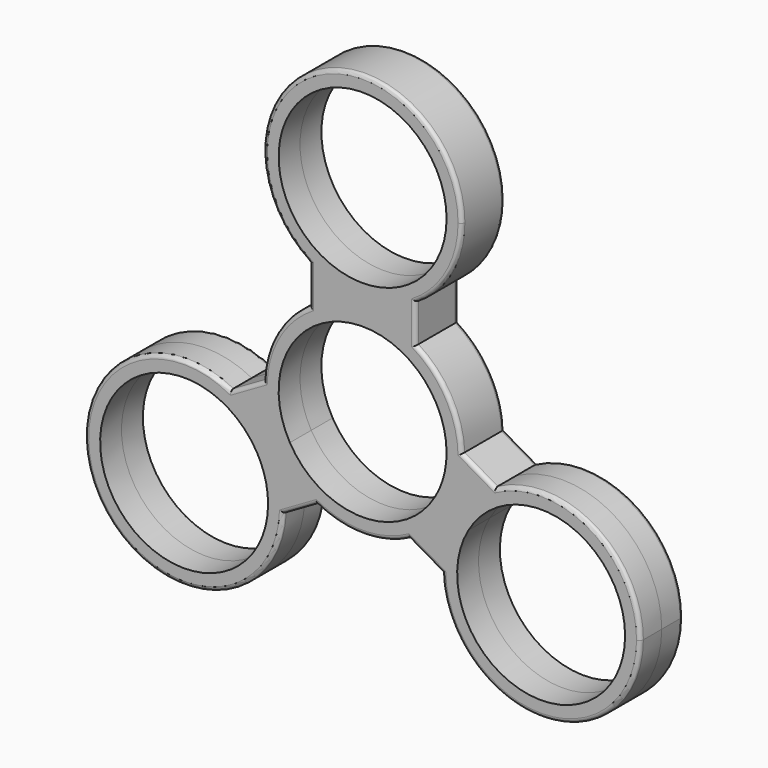
from build123d import *

# Parameters (mm, degrees)
F0_R     = 11
F1_DEPTH = 3.5
F2_R     = 0.5


with BuildPart() as f1:
    # F0 (on Front) → F1 (new body, symmetric)
    with BuildSketch(Plane.XZ):
        with BuildLine():
            ThreePointArc((-9.5262794416, -5.5), (-2.8470094961, 10.6251840892), (11, 0))
            ThreePointArc((11, 0), (10.6251840892, -2.8470094961), (9.5262794416, -5.5))
            Line((9.5262794416, -5.5), (11.2583302492, -6.5))
            ThreePointArc((11.2583302492, -6.5), (12.5570357418, -3.3646475863), (13, 0))
            ThreePointArc((13, 0), (12.9975950417, 0.2500462578), (12.9903810568, 0.5))
            ThreePointArc((12.9903810568, 0.5), (11.2583302492, 6.5), (6.9282032303, 11))
            ThreePointArc((6.9282032303, 11), (0, 13), (-6.9282032303, 11))
            ThreePointArc((-6.9282032303, 11), (-11.2583302492, 6.5), (-12.9903810568, 0.5))
            ThreePointArc((-12.9903810568, 0.5), (-12.6194294641, -3.1224989992), (-11.2583302492, -6.5))
            Line((-11.2583302492, -6.5), (-9.5262794416, -5.5))
        make_face()
        with BuildLine():
            ThreePointArc((9.5262794416, -5.5), (0, -11), (-9.5262794416, -5.5))
            Line((-9.5262794416, -5.5), (-11.2583302492, -6.5))
            ThreePointArc((-11.2583302492, -6.5), (-9.0138781887, -9.3674969976), (-6.0621778265, -11.5))
            ThreePointArc((-6.0621778265, -11.5), (0, -13), (6.0621778265, -11.5))
            ThreePointArc((6.0621778265, -11.5), (9.0138781887, -9.3674969976), (11.2583302492, -6.5))
            Line((11.2583302492, -6.5), (9.5262794416, -5.5))
        make_face()
        with BuildLine():
            Line((-12.124355653, -7), (-11.2583302492, -6.5))
            ThreePointArc((-11.2583302492, -6.5), (-12.6194294641, -3.1224989992), (-12.9903810568, 0.5))
            Line((-12.9903810568, 0.5), (-17.3205080757, -2))
            ThreePointArc((-17.3205080757, -2), (-14.3688077135, -4.1325030024), (-12.124355653, -7))
        make_face()
        with BuildLine():
            ThreePointArc((-6.0621778265, -11.5), (-9.0138781887, -9.3674969976), (-11.2583302492, -6.5))
            Line((-11.2583302492, -6.5), (-12.124355653, -7))
            ThreePointArc((-12.124355653, -7), (-10.8256501604, -10.1353524137), (-10.3826859022, -13.5))
            ThreePointArc((-10.3826859022, -13.5), (-10.3850908604, -13.7500462578), (-10.3923048454, -14))
            Line((-10.3923048454, -14), (-6.0621778265, -11.5))
        make_face()
        with BuildLine():
            Line((12.124355653, -7), (11.2583302492, -6.5))
            ThreePointArc((11.2583302492, -6.5), (9.0138781887, -9.3674969976), (6.0621778265, -11.5))
            Line((6.0621778265, -11.5), (10.3923048454, -14))
            ThreePointArc((10.3923048454, -14), (10.7632564381, -10.3775010008), (12.124355653, -7))
        make_face()
        with BuildLine():
            ThreePointArc((13, 0), (12.5570357418, -3.3646475863), (11.2583302492, -6.5))
            Line((11.2583302492, -6.5), (12.124355653, -7))
            ThreePointArc((12.124355653, -7), (14.3688077135, -4.1325030024), (17.3205080757, -2))
            Line((17.3205080757, -2), (12.9903810568, 0.5))
            ThreePointArc((12.9903810568, 0.5), (12.9975950417, 0.2500462578), (13, 0))
        make_face()
        with BuildLine():
            ThreePointArc((-10.3826859022, -13.5), (-10.8256501604, -10.1353524137), (-12.124355653, -7))
            ThreePointArc((-12.124355653, -7), (-14.3688077135, -4.1325030024), (-17.3205080757, -2))
            ThreePointArc((-17.3205080757, -2), (-34.6410161514, -20), (-10.3923048454, -14))
            ThreePointArc((-10.3923048454, -14), (-10.3850908604, -13.7500462578), (-10.3826859022, -13.5))
        make_face()
        with BuildLine():
            ThreePointArc((-12.3826859022, -13.5), (-34.0078699914, -16.3470094961), (-13.8564064606, -8))
            ThreePointArc((-13.8564064606, -8), (-12.757501813, -10.6529905039), (-12.3826859022, -13.5))
        make_face(mode=Mode.SUBTRACT)
        with BuildLine():
            ThreePointArc((17.3205080757, -2), (14.3688077135, -4.1325030024), (12.124355653, -7))
            ThreePointArc((12.124355653, -7), (10.7632564381, -10.3775010008), (10.3923048454, -14))
            ThreePointArc((10.3923048454, -14), (23.6327321599, -26.4975950417), (36.3826859022, -13.5))
            ThreePointArc((36.3826859022, -13.5), (30.0980298344, -2.3687756346), (17.3205080757, -2))
        make_face()
        with BuildLine():
            ThreePointArc((34.3826859022, -13.5), (20.5356764061, -24.1251840892), (13.8564064606, -8))
            ThreePointArc((13.8564064606, -8), (26.2296953983, -2.8748159108), (34.3826859022, -13.5))
        make_face(mode=Mode.SUBTRACT)
        with BuildLine():
            Line((-6.9282032303, 16), (-6.9282032303, 11))
            ThreePointArc((-6.9282032303, 11), (0, 13), (6.9282032303, 11))
            Line((6.9282032303, 11), (6.9282032303, 16))
            ThreePointArc((6.9282032303, 16), (0, 14), (-6.9282032303, 16))
        make_face()
        with BuildLine():
            ThreePointArc((13, 27), (-6.2822511095, 38.3812706231), (-6.9282032303, 16))
            ThreePointArc((-6.9282032303, 16), (0, 14), (6.9282032303, 16))
            ThreePointArc((6.9282032303, 16), (11.3812706231, 20.7177488905), (13, 27))
        make_face()
        with Locations((0, 27)):
            Circle(F0_R, mode=Mode.SUBTRACT)
    extrude(amount=F1_DEPTH, both=True)

    # F2
    f2_edges = [f1.edges().sort_by_distance(p)[0] for p in [
        (0, -3.5, 40),
        (0, 3.5, 40),
        (6.928203, -3.5, 13.5),
        (6.928203, 3.5, 13.5),
        (-6.928203, -3.5, 13.5),
        (-6.928203, 3.5, 13.5),
        (-11.25833, 3.5, 6.5),
        (-11.25833, -3.5, 6.5),
        (-15.155445, 3.5, -0.75),
        (-8.227241, 3.5, -12.75),
        (-34.641016, 3.5, -20),
        (-34.641016, -3.5, -20),
        (-15.155445, -3.5, -0.75),
        (-8.227241, -3.5, -12.75),
        (0, -3.5, -13),
        (0, 3.5, -13),
        (8.227241, -3.5, -12.75),
        (34.641016, -3.5, -20),
        (34.641016, 3.5, -20),
        (8.227241, 3.5, -12.75),
        (15.155445, -3.5, -0.75),
        (15.155445, 3.5, -0.75),
        (11.25833, 3.5, 6.5),
        (11.25833, -3.5, 6.5),
    ]]
    fillet(f2_edges, radius=F2_R)


solid = f1.part
